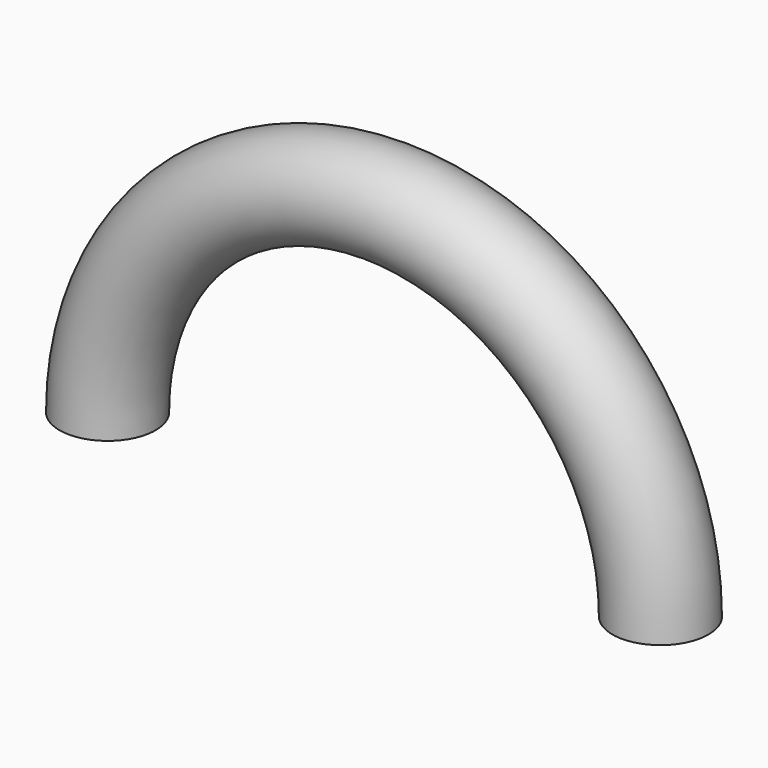
from build123d import *

# Parameters (mm, degrees)
F2_R = 1


with BuildPart() as f3:
    # F3: sweep along a path in F0
    with BuildLine(Plane.XZ) as f3_path:
        ThreePointArc((11.5, 0), (5.75, 5.75), (0, 0))
    # F2 (on face) → F3 (sweep)
    with BuildSketch(Plane.XY):
        with Locations((11.5, 0)):
            Circle(F2_R)
    sweep(path=f3_path.line)


solid = f3.part
